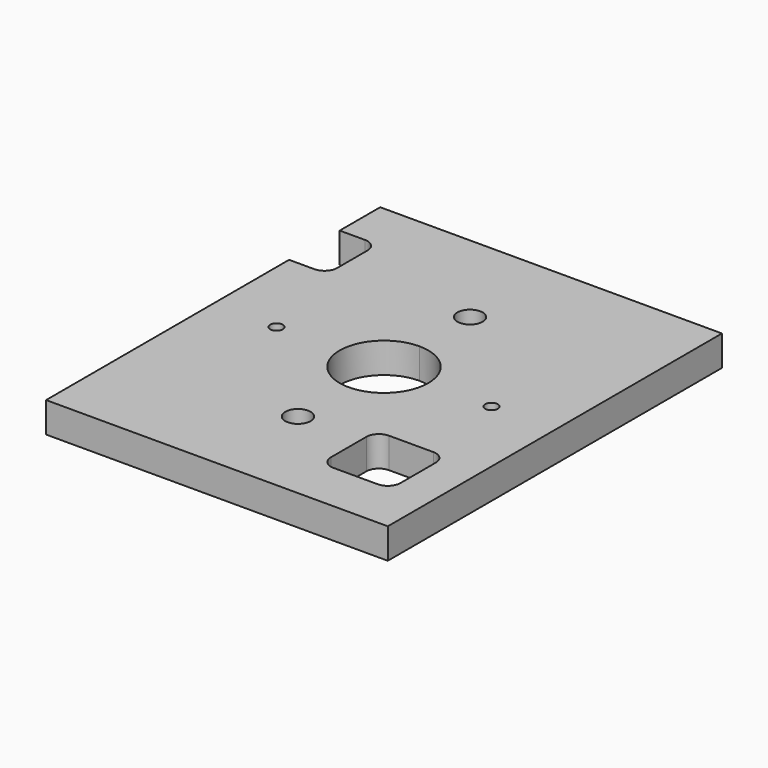
from build123d import *

# Parameters (mm, degrees)
F0_R     = 1
F0_R_2   = 0.5
F1_DEPTH = 2.4


with BuildPart() as f1:
    # F0 (on Top) → F1 (new body)
    with BuildSketch(Plane.XY):
        with BuildLine():
            Line((-13.5, -16.5), (13.5, -16.5))
            Line((13.5, -16.5), (13.5, 16.5))
            Line((13.5, 16.5), (-13.5, 16.5))
            Line((-13.5, 16.5), (-13.5, 12.5))
            Line((-13.5, 12.5), (-11.5, 12.5))
            ThreePointArc((-11.5, 12.5), (-10.792893, 12.207107), (-10.5, 11.5))
            Line((-10.5, 11.5), (-10.5, 8.5))
            ThreePointArc((-10.5, 8.5), (-10.792893, 7.792893), (-11.5, 7.5))
            Line((-11.5, 7.5), (-13.5, 7.5))
            Line((-13.5, 7.5), (-13.5, -16.5))
        make_face()
        with Locations((0, -8.5)):
            Circle(F0_R, mode=Mode.SUBTRACT)
        with BuildLine():
            ThreePointArc((10.5, -11.5), (10.207107, -12.207107), (9.5, -12.5))
            Line((9.5, -12.5), (6, -12.5))
            ThreePointArc((6, -12.5), (5.292893, -12.207107), (5, -11.5))
            Line((5, -11.5), (5, -8))
            ThreePointArc((5, -8), (5.292893, -7.292893), (6, -7))
            Line((6, -7), (9.5, -7))
            ThreePointArc((9.5, -7), (10.207107, -7.292893), (10.5, -8))
            Line((10.5, -8), (10.5, -11.5))
        make_face(mode=Mode.SUBTRACT)
        with Locations((-8.5, 0)):
            Circle(F0_R_2, mode=Mode.SUBTRACT)
        with BuildLine():
            ThreePointArc((0, 3.5), (2.474874, 2.474874), (3.5, 0))
            ThreePointArc((3.5, 0), (-2.474874, -2.474874), (0, 3.5))
        make_face(mode=Mode.SUBTRACT)
        with BuildLine():
            ThreePointArc((9, 0), (8.5, -0.5), (8, 0))
            ThreePointArc((8, 0), (8.5, 0.5), (9, 0))
        make_face(mode=Mode.SUBTRACT)
        with BuildLine():
            ThreePointArc((1, 8.5), (0.707107, 7.792893), (0, 7.5))
            ThreePointArc((0, 7.5), (-0.707107, 9.207107), (1, 8.5))
        make_face(mode=Mode.SUBTRACT)
    extrude(amount=F1_DEPTH)


solid = f1.part
